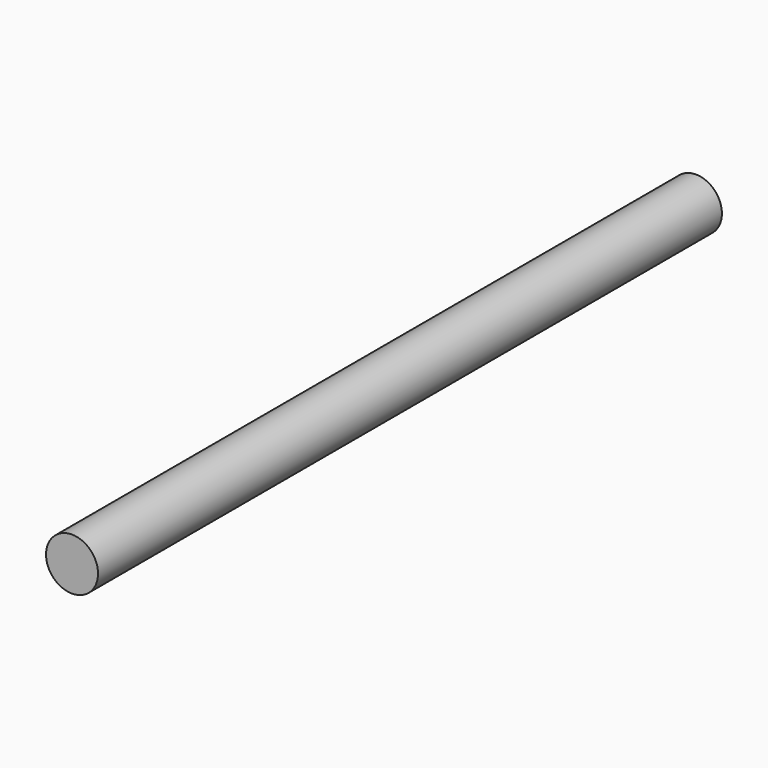
from build123d import *

# Parameters (mm, degrees)
F1_R = 5


with BuildPart() as f2:
    # F2: sweep along a path in F0
    with BuildLine(Plane.YZ) as f2_path:
        Line((0, 0), (150, 0))
    # F1 (on Front) → F2 (sweep)
    with BuildSketch(Plane.XZ):
        Circle(F1_R)
    sweep(path=f2_path.line)


solid = f2.part
